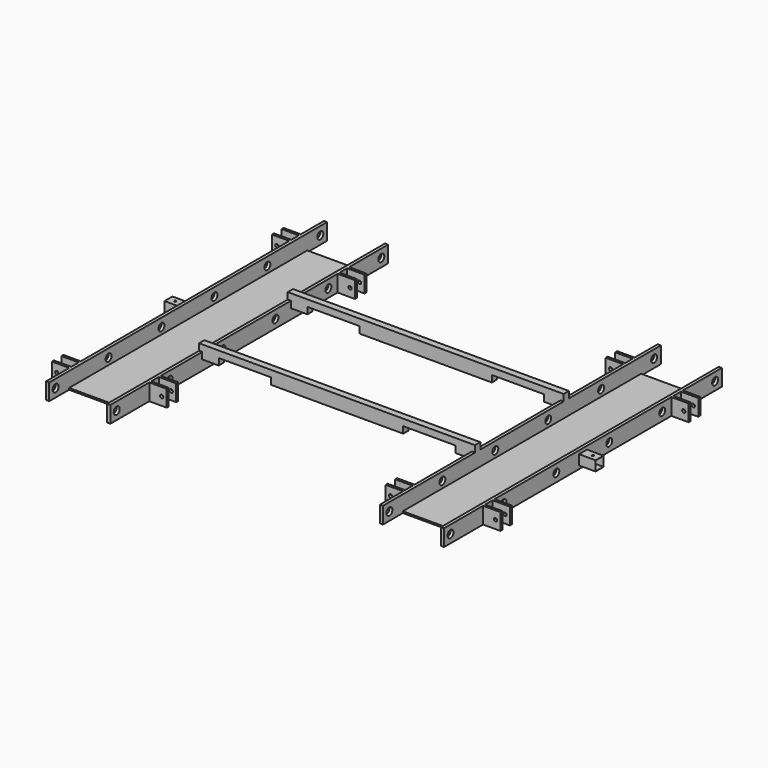
from build123d import *

# Parameters (mm, degrees)
F1_DEPTH  = 1050
F2_W      = 19
F2_H      = 40
F2_W_2    = 1649
F3_DEPTH  = 40
F4_W      = 105
F4_H      = 15
F5_DEPTH  = 100
F8_R      = 10
F7_R      = 10
F9_R      = 10
F6_R      = 10
F10_DEPTH = 100
F13_R     = 10
F11_R     = 10
F12_R     = 10
F14_R     = 10
F15_DEPTH = 100
F16_W     = 800
F16_H     = 40
F17_DEPTH = 40
F18_W     = 350
F18_H     = 150
F19_DEPTH = 25
F20_R     = 22.5
F21_DEPTH = 2511.001
F22_W     = 60
F22_H     = 60
F22_W_2   = 57
F22_H_2   = 57
F23_DEPTH = 100
F24_R     = 6
F25_DEPTH = 60
F27_DEPTH = 40
F28_W     = 100
F28_H     = 40
F29_DEPTH = 40


with BuildPart() as f1:
    # F0 (on Front) → F1 (new body, symmetric)
    with BuildSketch(Plane.XZ):
        Polygon((-834, 0), (-834, -90), (-1184, -90), (-1184, 0), (-1203, 0), (-1203, -100), (-815, -100), (-815, 0), align=None)
    extrude(amount=F1_DEPTH, both=True)



with BuildPart() as f1b:
    # F0 (on Front) → F1, piece 2 (new body, symmetric)
    with BuildSketch(Plane.XZ):
        Polygon((815, 0), (815, -100), (1203, -100), (1203, 0), (1184, 0), (1184, -90), (834, -90), (834, 0), align=None)
    extrude(amount=F1_DEPTH, both=True)


with BuildPart() as f1_1:
    add(f1.part)

    add(f1b.part)  # F3 merges F1b
    # F2 (on face) → F3 (join)
    with BuildSketch(Plane.XY):
        with Locations((-824.5, -335)):
            Rectangle(F2_W, F2_H)
        with Locations((-824.5, 335)):
            Rectangle(F2_W, F2_H)
        with Locations((9.5, -335)):
            Rectangle(F2_W_2, F2_H)
        with Locations((9.5, 335)):
            Rectangle(F2_W_2, F2_H)
    extrude(amount=F3_DEPTH)

    # F4 (on Top) → F5 (join)
    with BuildSketch(Plane.XY):
        with Locations((-1255.5, 867.5)):
            Rectangle(F4_W, F4_H)
        with Locations((-1255.5, 795.5)):
            Rectangle(F4_W, F4_H)
        with Locations((-762.5, 747.5)):
            Rectangle(F4_W, F4_H)
        with Locations((-762.5, 675.5)):
            Rectangle(F4_W, F4_H)
        with Locations((762.5, 867.5)):
            Rectangle(F4_W, F4_H)
        with Locations((762.5, 795.5)):
            Rectangle(F4_W, F4_H)
        with Locations((1255.5, 747.5)):
            Rectangle(F4_W, F4_H)
        with Locations((1255.5, 675.5)):
            Rectangle(F4_W, F4_H)
        with Locations((762.5, -867.5)):
            Rectangle(F4_W, F4_H)
        with Locations((762.5, -795.5)):
            Rectangle(F4_W, F4_H)
        with Locations((1255.5, -675.5)):
            Rectangle(F4_W, F4_H)
        with Locations((1255.5, -747.5)):
            Rectangle(F4_W, F4_H)
        with Locations((-762.5, -675.5)):
            Rectangle(F4_W, F4_H)
        with Locations((-762.5, -747.5)):
            Rectangle(F4_W, F4_H)
        with Locations((-1255.5, -795.5)):
            Rectangle(F4_W, F4_H)
        with Locations((-1255.5, -867.5)):
            Rectangle(F4_W, F4_H)
    extrude(amount=-F5_DEPTH)

    # F8 (on face) + F7 (on face) + F9 (on face) + F6 (on face) → F10 (cut)
    with BuildSketch(Plane(origin=(0, -668, 0), x_dir=(-1, 0, 0), z_dir=(0, 1, 0))):
        with Locations((-1278, -50)):
            Circle(F8_R)
    with BuildSketch(Plane(origin=(0, -788, 0), x_dir=(-1, 0, 0), z_dir=(0, 1, 0))):
        with Locations((-740, -50)):
            Circle(F7_R)
    with BuildSketch(Plane(origin=(0, 755, 0), x_dir=(-1, 0, 0), z_dir=(0, 1, 0))):
        with Locations((-1278, -50)):
            Circle(F9_R)
    with BuildSketch(Plane(origin=(0, 875, 0), x_dir=(-1, 0, 0), z_dir=(0, 1, 0))):
        with Locations((-740, -50)):
            Circle(F6_R)
    extrude(amount=-F10_DEPTH, mode=Mode.SUBTRACT)

    # F13 (on face) + F11 (on face) + F12 (on face) + F14 (on face) → F15 (cut)
    with BuildSketch(Plane(origin=(0, 755, 0), x_dir=(-1, 0, 0), z_dir=(0, 1, 0))):
        with Locations((740, -50)):
            Circle(F13_R)
    with BuildSketch(Plane(origin=(0, -788, 0), x_dir=(-1, 0, 0), z_dir=(0, 1, 0))):
        with Locations((1278, -50)):
            Circle(F11_R)
    with BuildSketch(Plane(origin=(0, -668, 0), x_dir=(-1, 0, 0), z_dir=(0, 1, 0))):
        with Locations((740, -50)):
            Circle(F12_R)
    with BuildSketch(Plane(origin=(0, 875, 0), x_dir=(-1, 0, 0), z_dir=(0, 1, 0))):
        with Locations((1278, -50)):
            Circle(F14_R)
    extrude(amount=-F15_DEPTH, mode=Mode.SUBTRACT)

    # F16 (on face) → F17 (join)
    with BuildSketch(Plane(origin=(0, 0, 0), x_dir=(1, 0, 0), z_dir=(0, 0, -1))):
        with Locations((0, -335)):
            Rectangle(F16_W, F16_H)
        with Locations((0, 335)):
            Rectangle(F16_W, F16_H)
    extrude(amount=F17_DEPTH)

    # F18 (on face) → F19 (cut)
    with BuildSketch(Plane.XY.offset(-90)):
        with Locations((-1009, 975)):
            Rectangle(F18_W, F18_H)
        with Locations((-1009, -975)):
            Rectangle(F18_W, F18_H)
        with Locations((1009, -975)):
            Rectangle(F18_W, F18_H)
        with Locations((1009, 975)):
            Rectangle(F18_W, F18_H)
    extrude(amount=-F19_DEPTH, mode=Mode.SUBTRACT)

    # F20 (on face) → F21 (cut, through all)
    with BuildSketch(Plane(origin=(-1203, 0, 0), x_dir=(0, -1, 0), z_dir=(-1, 0, 0))):
        with Locations((-998.6598491669, -50)):
            Circle(F20_R)
        with Locations((-598.6598491669, -50)):
            Circle(F20_R)
        with Locations((-198.6598491669, -50)):
            Circle(F20_R)
        with Locations((201.3401508331, -50)):
            Circle(F20_R)
        with Locations((601.3401508331, -50)):
            Circle(F20_R)
        with Locations((1001.3401508331, -50)):
            Circle(F20_R)
    extrude(amount=-F21_DEPTH, mode=Mode.SUBTRACT)

    # F26: F23 across plane


with BuildPart() as f23:
    # F22 (on face) → F23 (new body)
    with BuildSketch(Plane.YZ.offset(1203)):
        with Locations((0, -50)):
            Rectangle(F22_W, F22_H)
        with Locations((0, -50)):
            Rectangle(F22_W_2, F22_H_2, mode=Mode.SUBTRACT)
    extrude(amount=F23_DEPTH)

    # F24 (on face) → F25 (cut, through all)
    with BuildSketch(Plane.XY.offset(-20)):
        with Locations((1263, 0)):
            Circle(F24_R)
    extrude(amount=-F25_DEPTH, mode=Mode.SUBTRACT)


with BuildPart() as f1_2:
    add(f1_1.part)
    add(f23.part.mirror(Plane.YZ))

    # F16 (on face) → F27 (join)
    with BuildSketch(Plane(origin=(0, 0, 0), x_dir=(1, 0, 0), z_dir=(0, 0, -1))):
        with Locations((0, -335)):
            Rectangle(F16_W, F16_H)
    extrude(amount=F27_DEPTH)



with BuildPart() as f29:
    # F28 (on face) → F29 (new body)
    with BuildSketch(Plane(origin=(0, 0, 0), x_dir=(1, 0, 0), z_dir=(0, 0, -1))):
        with Locations((-765, 335)):
            Rectangle(F28_W, F28_H)
    extrude(amount=F29_DEPTH)


with BuildPart() as f30_1:
    # F30: instance of F29
    add(f29.part.mirror(Plane.YZ))


with BuildPart() as f1_3:
    add(f1_2.part)

    add(f23.part)  # F31 merges F23

    add(f29.part)  # F31 merges F29

    add(f30_1.part)  # F31 merges F30_1
    # F31: F29, F30_1 across plane
    add(f29.part.mirror(Plane.XZ))
    add(f30_1.part.mirror(Plane.XZ))


solid = f1_3.part
